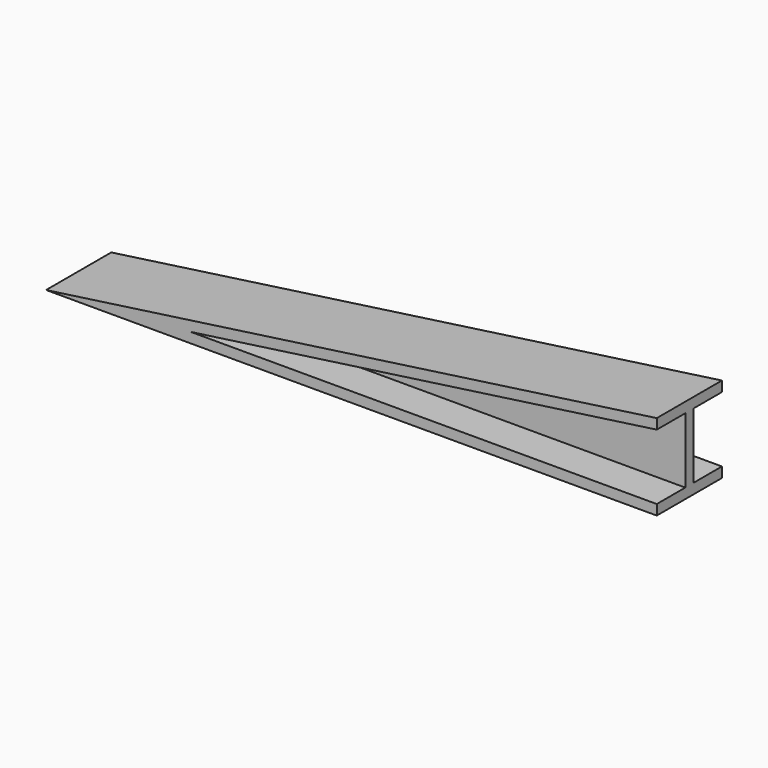
from build123d import *

# Parameters (mm, degrees)
F1_DEPTH = 1.5875
F2_DEPTH = 12.7


with BuildPart() as f1:
    # F0 (on Front) → F1 (new body, symmetric)
    with BuildSketch(Plane.XZ):
        Polygon((-58.3423435574, 3.175), (86.9750587055, 3.175), (86.9750587055, 23.5980290108), align=None)
    extrude(amount=F1_DEPTH, both=True)

    # F0 (on Front) → F2 (join, symmetric)
    with BuildSketch(Plane.XZ):
        Polygon((86.9750587055, 26.7730290108), (-103.5249412945, 0), (86.9750587055, 0), (86.9750587055, 3.175), (-58.3423435574, 3.175), (86.9750587055, 23.5980290108), align=None)
    extrude(amount=F2_DEPTH, both=True)


solid = f1.part
